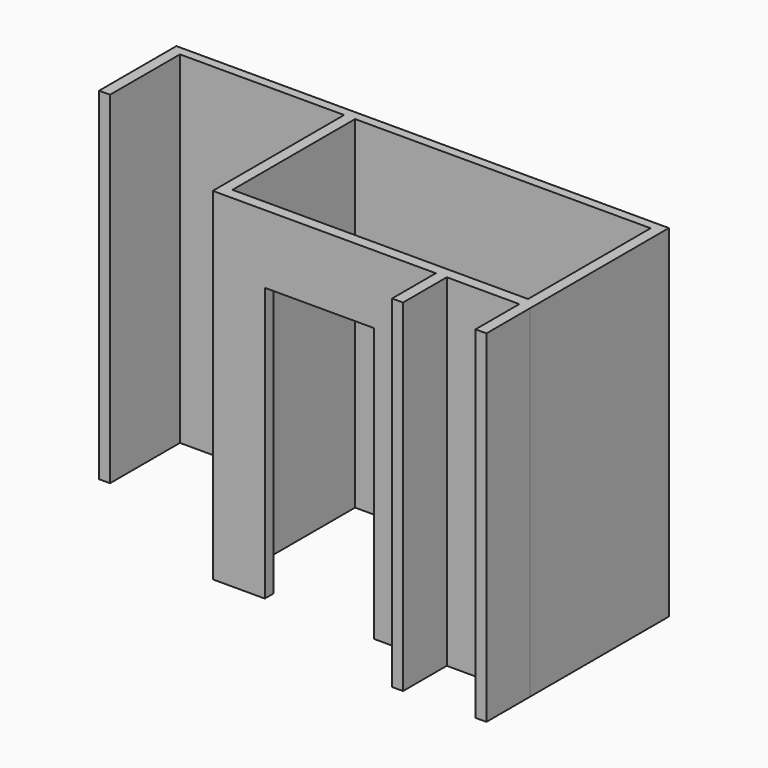
from build123d import *

# Parameters (mm, degrees)
F1_DEPTH = 2500
F2_W     = 80
F2_H     = 500
F3_DEPTH = 800


with BuildPart() as f1:
    # F0 (on Top) → F1 (new body)
    with BuildSketch(Plane.XY):
        Polygon((-972.894872, 721.918679), (-892.894872, 721.918679), (-892.894872, 1360.536091), (307.105128, 1360.536091), (307.105128, 160.536091), (687.105128, 160.536091), (687.105128, 240.536091), (387.105128, 240.536091), (387.105128, 1360.536091), (2547.306337, 1360.536091), (2547.465375, 240.686681), (1487.105128, 240.536091), (1487.105128, 160.536091), (1937.285143, 160.536091), (1937.341928, -239.307905), (2017.341927, -239.296544), (2017.285144, 160.536091), (2547.476758, 160.536091), (2547.341897, -239.47523), (2627.341896, -239.463868), (2627.285089, 160.536091), (2627.105128, 1427.702822), (-972.894872, 1427.702822), align=None)
    extrude(amount=F1_DEPTH)

    # F2 (on face) → F3 (join)
    with BuildSketch(Plane.YZ.offset(687.105128)):
        with Locations((200.536091, 2250)):
            Rectangle(F2_W, F2_H)
    extrude(amount=F3_DEPTH)


solid = f1.part
